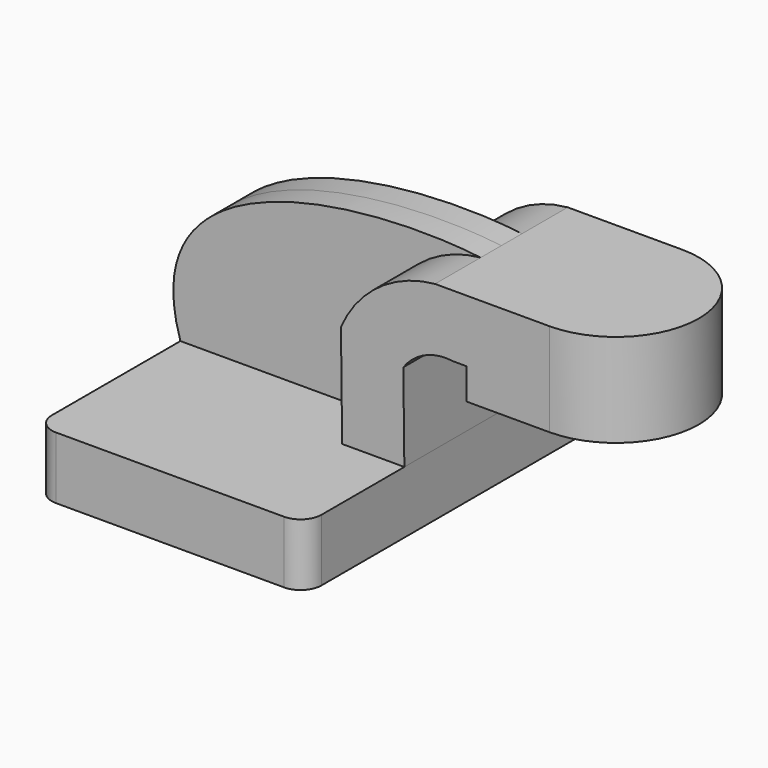
from build123d import *

# Parameters (mm, degrees)
F1_DEPTH = 63.5
F0_W     = 25.4
F0_H     = 19.05
F0_H_2   = 9.525
F2_DEPTH = 25.4
F3_DEPTH = 7.9375
F5_R     = 6.35


with BuildPart() as f1:
    # F0 (on Front) → F1 (new body, symmetric)
    with BuildSketch(Plane.XZ):
        Polygon((-41.275, -9.525), (41.275, -9.525), (41.275, 9.525), (22.2237235206, 9.525), (-41.275, 9.525), align=None)
    extrude(amount=F1_DEPTH, both=True)

    # F0 (on Front) → F2 (join, symmetric)
    with BuildSketch(Plane.XZ):
        with BuildLine():
            Line((22.2237235206, 9.525), (41.275, 9.525))
            Line((41.275, 9.525), (40.9650549741, 36.2983668991))
            ThreePointArc((40.9650549741, 36.2983668991), (47.6329246689, 41.7219107909), (56.1502739404, 42.8752))
            Line((56.1502739404, 42.8752), (60.325, 42.8752))
            Line((60.325, 42.8752), (60.325, 61.9252))
            Line((60.325, 61.9252), (50.6626719245, 61.9252))
            ThreePointArc((50.6626719245, 61.9252), (33.3863605767, 55.3894970066), (21.8598589674, 40.95599057))
            Line((21.8598589674, 40.95599057), (22.2237235206, 9.525))
        make_face()
        with Locations((73.025, 52.4002)):
            Rectangle(F0_W, F0_H)
        with Locations((73.025, 38.1127)):
            Rectangle(F0_W, F0_H_2)
    extrude(amount=F2_DEPTH, both=True)

    # F0 (on Front) → F3 (join, symmetric)
    with BuildSketch(Plane.XZ):
        with BuildLine():
            add(Edge.make_bspline(
                [(-41.275, 9.525), (-56.7215932498, 57.9155711565), (13.6268828042, 66.4033379321), (50.6626719245, 61.9252)],
                knots=[0, 0, 0, 0, 105.8220982543, 105.8220982543, 105.8220982543, 105.8220982543], degree=3))
            Line((-41.275, 9.525), (22.2237235206, 9.525))
            Line((22.2237235206, 9.525), (21.8598589674, 40.95599057))
            ThreePointArc((21.8598589674, 40.95599057), (33.3863605767, 55.3894970066), (50.6626719245, 61.9252))
        make_face()
    extrude(amount=F3_DEPTH, both=True)

    # F0 (on Front) → F4 (revolve)
    with BuildSketch(Plane.XZ):
        Polygon((111.125, 61.9252), (85.725, 61.9252), (85.725, 42.8752), (85.725, 33.3502), (111.125, 33.3502), align=None)
    revolve(axis=Axis((85.725, 0, 52.4002), (0, 0, -1)))

    # F5
    f5_edges = [f1.edges().sort_by_distance(p)[0] for p in [
        (41.275, 63.5, 0),
        (-41.275, 63.5, 0),
        (-41.275, -63.5, 0),
        (41.275, -63.5, 0),
    ]]
    fillet(f5_edges, radius=F5_R)


solid = f1.part
